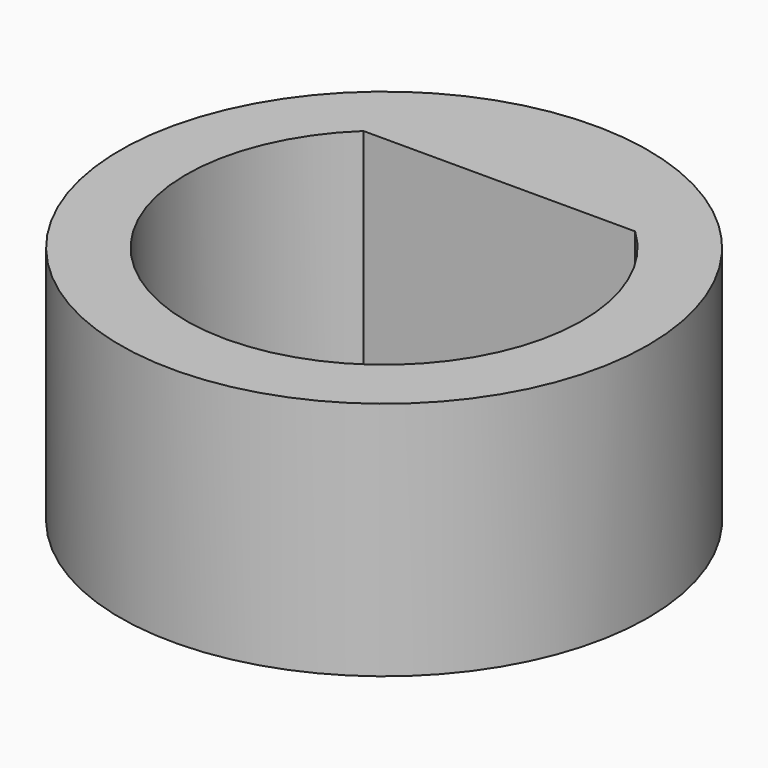
from build123d import *

# Parameters (mm, degrees)
F0_R     = 5.5
F1_DEPTH = 5


with BuildPart() as f1:
    # F0 (on Top) → F1 (new body)
    with BuildSketch(Plane.XY):
        with BuildLine():
            Line((2.831188, 3), (0, 3))
            Line((0, 3), (-2.831188, 3))
            ThreePointArc((-2.831188, 3), (0, -4.125), (2.831188, 3))
        make_face()
        Circle(F0_R)
        with BuildLine():
            Line((-2.831188, 3), (0, 3))
            Line((0, 3), (2.831188, 3))
            ThreePointArc((2.831188, 3), (0, -4.125), (-2.831188, 3))
        make_face(mode=Mode.SUBTRACT)
    extrude(amount=F1_DEPTH)


solid = f1.part
